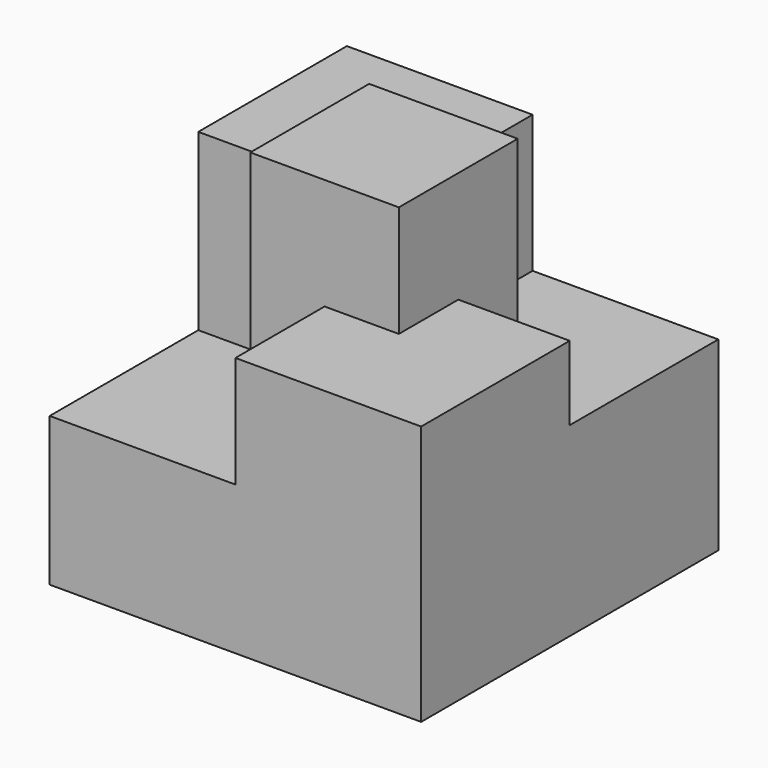
from build123d import *

# Parameters (mm, degrees)
F1_DEPTH = 22.098
F2_DEPTH = 12.7
F3_DEPTH = 10.16
F4_DEPTH = 17.78
F5_DEPTH = 25.4


with BuildPart() as f1:
    # F0 (on Top) → F1 (new body)
    with BuildSketch(Plane.XY):
        Polygon((-4.405003, 8.097968), (-4.405003, 15.717968), (-17.105003, 15.717968), (-17.105003, 3.017968), (-9.622183, 3.017968), (-9.485003, 3.017968), (-9.485003, 8.097968), align=None)
    extrude(amount=F1_DEPTH)

    # F0 (on Top) → F2 (join)
    with BuildSketch(Plane.XY):
        Polygon((0.674997, 3.017968), (8.294997, 3.017968), (8.294997, 15.717968), (-4.405003, 15.717968), (-4.405003, 8.097968), (0.674997, 8.097968), align=None)
    extrude(amount=F2_DEPTH)

    # F0 (on Top) → F3 (join)
    with BuildSketch(Plane.XY):
        Polygon((-17.105003, -9.682032), (-4.405003, -9.682032), (-4.405003, -2.062032), (-9.485003, -2.062032), (-9.485003, 3.017968), (-9.622183, 3.017968), (-17.105003, 3.017968), (-17.105003, -3.333643), align=None)
    extrude(amount=F3_DEPTH)

    # F0 (on Top) → F4 (join)
    with BuildSketch(Plane.XY):
        Polygon((-4.405003, -9.682032), (8.294997, -9.682032), (8.294997, 3.017968), (0.674997, 3.017968), (0.674997, -2.062032), (-4.405003, -2.062032), align=None)
    extrude(amount=F4_DEPTH)

    # F0 (on Top) → F5 (join)
    with BuildSketch(Plane.XY):
        Polygon((-9.485003, -2.062032), (-4.405003, -2.062032), (0.674997, -2.062032), (0.674997, 3.017968), (0.674997, 8.097968), (-4.405003, 8.097968), (-9.485003, 8.097968), (-9.485003, 3.017968), align=None)
    extrude(amount=F5_DEPTH)


solid = f1.part
